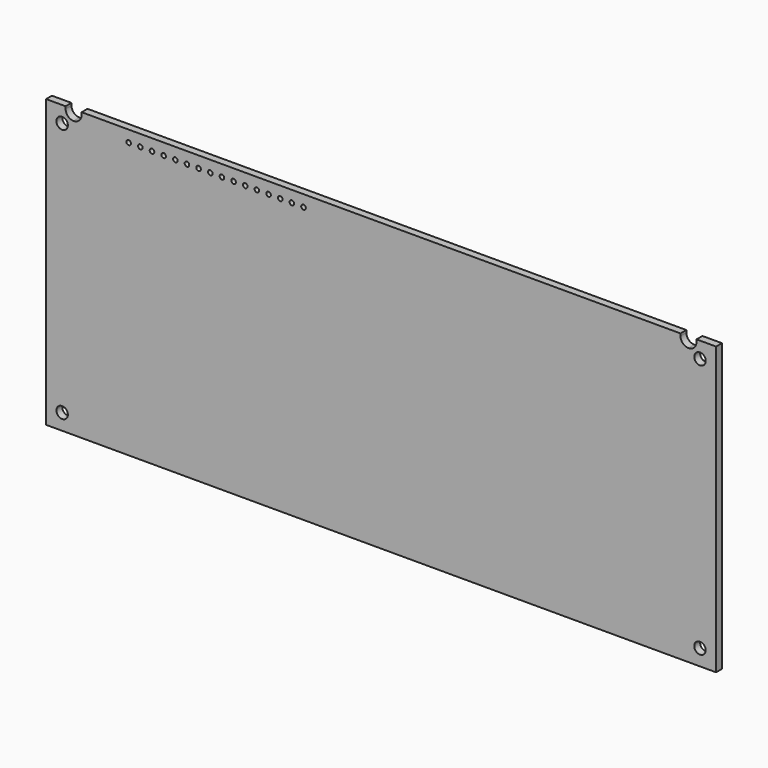
from build123d import *

# Parameters (mm, degrees)
F0_R     = 2
F0_R_2   = 1.25
F0_R_3   = 0.5
F1_DEPTH = 1.6


with BuildPart() as f1:
    # F0 (on Front) → F1 (new body)
    with BuildSketch(Plane.XZ):
        with BuildLine():
            Line((-73, -31.25), (73, -31.25))
            Line((73, -31.25), (73, 31.25))
            Line((73, 31.25), (68.75, 31.25))
            Line((68.75, 31.25), (68.75, 30.75))
            ThreePointArc((68.75, 30.75), (68.237437, 29.512563), (67, 29))
            ThreePointArc((67, 29), (65.762563, 29.512563), (65.25, 30.75))
            Line((65.25, 30.75), (65.25, 31.25))
            Line((65.25, 31.25), (-16, 31.25))
            Line((-16, 31.25), (-16, 29.65))
            Line((-16, 29.65), (-16, 28.75))
            ThreePointArc((-16, 28.75), (-16.263604, 28.113604), (-16.9, 27.85))
            ThreePointArc((-16.9, 27.85), (-17.536396, 28.113604), (-17.8, 28.75))
            Line((-17.8, 28.75), (-17.8, 29.65))
            Line((-17.8, 29.65), (-17.8, 31.25))
            Line((-17.8, 31.25), (-18.54, 31.25))
            Line((-18.54, 31.25), (-18.54, 29.65))
            Line((-18.54, 29.65), (-18.54, 28.75))
            ThreePointArc((-18.54, 28.75), (-18.803604, 28.113604), (-19.44, 27.85))
            ThreePointArc((-19.44, 27.85), (-20.076396, 28.113604), (-20.34, 28.75))
            Line((-20.34, 28.75), (-20.34, 29.65))
            Line((-20.34, 29.65), (-20.34, 31.25))
            Line((-20.34, 31.25), (-21.08, 31.25))
            Line((-21.08, 31.25), (-21.08, 29.65))
            Line((-21.08, 29.65), (-21.08, 28.75))
            ThreePointArc((-21.08, 28.75), (-21.343604, 28.113604), (-21.98, 27.85))
            ThreePointArc((-21.98, 27.85), (-22.616396, 28.113604), (-22.88, 28.75))
            Line((-22.88, 28.75), (-22.88, 29.65))
            Line((-22.88, 29.65), (-22.88, 31.25))
            Line((-22.88, 31.25), (-23.62, 31.25))
            Line((-23.62, 31.25), (-23.62, 29.65))
            Line((-23.62, 29.65), (-23.62, 28.75))
            ThreePointArc((-23.62, 28.75), (-23.883604, 28.113604), (-24.52, 27.85))
            ThreePointArc((-24.52, 27.85), (-25.156396, 28.113604), (-25.42, 28.75))
            Line((-25.42, 28.75), (-25.42, 29.65))
            Line((-25.42, 29.65), (-25.42, 31.25))
            Line((-25.42, 31.25), (-26.16, 31.25))
            Line((-26.16, 31.25), (-26.16, 29.65))
            Line((-26.16, 29.65), (-26.16, 28.75))
            ThreePointArc((-26.16, 28.75), (-26.423604, 28.113604), (-27.06, 27.85))
            ThreePointArc((-27.06, 27.85), (-27.696396, 28.113604), (-27.96, 28.75))
            Line((-27.96, 28.75), (-27.96, 29.65))
            Line((-27.96, 29.65), (-27.96, 31.25))
            Line((-27.96, 31.25), (-28.7, 31.25))
            Line((-28.7, 31.25), (-28.7, 29.65))
            Line((-28.7, 29.65), (-28.7, 28.75))
            ThreePointArc((-28.7, 28.75), (-28.963604, 28.113604), (-29.6, 27.85))
            ThreePointArc((-29.6, 27.85), (-30.236396, 28.113604), (-30.5, 28.75))
            Line((-30.5, 28.75), (-30.5, 29.65))
            Line((-30.5, 29.65), (-30.5, 31.25))
            Line((-30.5, 31.25), (-31.24, 31.25))
            Line((-31.24, 31.25), (-31.24, 29.65))
            Line((-31.24, 29.65), (-31.24, 28.75))
            ThreePointArc((-31.24, 28.75), (-31.503604, 28.113604), (-32.14, 27.85))
            ThreePointArc((-32.14, 27.85), (-32.776396, 28.113604), (-33.04, 28.75))
            Line((-33.04, 28.75), (-33.04, 29.65))
            Line((-33.04, 29.65), (-33.04, 31.25))
            Line((-33.04, 31.25), (-33.78, 31.25))
            Line((-33.78, 31.25), (-33.78, 29.65))
            Line((-33.78, 29.65), (-33.78, 28.75))
            ThreePointArc((-33.78, 28.75), (-34.043604, 28.113604), (-34.68, 27.85))
            ThreePointArc((-34.68, 27.85), (-35.316396, 28.113604), (-35.58, 28.75))
            Line((-35.58, 28.75), (-35.58, 29.65))
            Line((-35.58, 29.65), (-35.58, 31.25))
            Line((-35.58, 31.25), (-36.32, 31.25))
            Line((-36.32, 31.25), (-36.32, 29.65))
            Line((-36.32, 29.65), (-36.32, 28.75))
            ThreePointArc((-36.32, 28.75), (-36.583604, 28.113604), (-37.22, 27.85))
            ThreePointArc((-37.22, 27.85), (-37.856396, 28.113604), (-38.12, 28.75))
            Line((-38.12, 28.75), (-38.12, 29.65))
            Line((-38.12, 29.65), (-38.12, 31.25))
            Line((-38.12, 31.25), (-38.86, 31.25))
            Line((-38.86, 31.25), (-38.86, 29.65))
            Line((-38.86, 29.65), (-38.86, 28.75))
            ThreePointArc((-38.86, 28.75), (-39.123604, 28.113604), (-39.76, 27.85))
            ThreePointArc((-39.76, 27.85), (-40.396396, 28.113604), (-40.66, 28.75))
            Line((-40.66, 28.75), (-40.66, 29.65))
            Line((-40.66, 29.65), (-40.66, 31.25))
            Line((-40.66, 31.25), (-41.4, 31.25))
            Line((-41.4, 31.25), (-41.4, 29.65))
            Line((-41.4, 29.65), (-41.4, 28.75))
            ThreePointArc((-41.4, 28.75), (-41.663604, 28.113604), (-42.3, 27.85))
            ThreePointArc((-42.3, 27.85), (-42.936396, 28.113604), (-43.2, 28.75))
            Line((-43.2, 28.75), (-43.2, 29.65))
            Line((-43.2, 29.65), (-43.2, 31.25))
            Line((-43.2, 31.25), (-43.94, 31.25))
            Line((-43.94, 31.25), (-43.94, 29.65))
            Line((-43.94, 29.65), (-43.94, 28.75))
            ThreePointArc((-43.94, 28.75), (-44.203604, 28.113604), (-44.84, 27.85))
            ThreePointArc((-44.84, 27.85), (-45.476396, 28.113604), (-45.74, 28.75))
            Line((-45.74, 28.75), (-45.74, 29.65))
            Line((-45.74, 29.65), (-45.74, 31.25))
            Line((-45.74, 31.25), (-46.48, 31.25))
            Line((-46.48, 31.25), (-46.48, 29.65))
            Line((-46.48, 29.65), (-46.48, 28.75))
            ThreePointArc((-46.48, 28.75), (-46.743604, 28.113604), (-47.38, 27.85))
            ThreePointArc((-47.38, 27.85), (-48.016396, 28.113604), (-48.28, 28.75))
            Line((-48.28, 28.75), (-48.28, 29.65))
            Line((-48.28, 29.65), (-48.28, 31.25))
            Line((-48.28, 31.25), (-49.02, 31.25))
            Line((-49.02, 31.25), (-49.02, 29.65))
            Line((-49.02, 29.65), (-49.02, 28.75))
            ThreePointArc((-49.02, 28.75), (-49.283604, 28.113604), (-49.92, 27.85))
            ThreePointArc((-49.92, 27.85), (-50.556396, 28.113604), (-50.82, 28.75))
            Line((-50.82, 28.75), (-50.82, 29.65))
            Line((-50.82, 29.65), (-50.82, 31.25))
            Line((-50.82, 31.25), (-51.56, 31.25))
            Line((-51.56, 31.25), (-51.56, 29.65))
            Line((-51.56, 29.65), (-51.56, 28.75))
            ThreePointArc((-51.56, 28.75), (-51.823604, 28.113604), (-52.46, 27.85))
            ThreePointArc((-52.46, 27.85), (-53.096396, 28.113604), (-53.36, 28.75))
            Line((-53.36, 28.75), (-53.36, 29.65))
            Line((-53.36, 29.65), (-53.36, 31.25))
            Line((-53.36, 31.25), (-54.1, 31.25))
            Line((-54.1, 31.25), (-54.1, 29.65))
            Line((-54.1, 29.65), (-54.1, 28.75))
            ThreePointArc((-54.1, 28.75), (-54.363604, 28.113604), (-55, 27.85))
            ThreePointArc((-55, 27.85), (-55.636396, 28.113604), (-55.9, 28.75))
            Line((-55.9, 28.75), (-55.9, 29.65))
            Line((-55.9, 29.65), (-55.9, 31.25))
            Line((-55.9, 31.25), (-65.25, 31.25))
            Line((-65.25, 31.25), (-65.25, 30.75))
            ThreePointArc((-65.25, 30.75), (-65.762563, 29.512563), (-67, 29))
            ThreePointArc((-67, 29), (-68.237437, 29.512563), (-68.75, 30.75))
            Line((-68.75, 30.75), (-68.75, 31.25))
            Line((-68.75, 31.25), (-73, 31.25))
            Line((-73, 31.25), (-73, -31.25))
        make_face()
        with Locations((-69.5, -27.75)):
            Circle(F0_R, mode=Mode.SUBTRACT)
        with Locations((69.5, -27.75)):
            Circle(F0_R, mode=Mode.SUBTRACT)
        with Locations((-69.5, 27.75)):
            Circle(F0_R, mode=Mode.SUBTRACT)
        with Locations((69.5, 27.75)):
            Circle(F0_R, mode=Mode.SUBTRACT)
        with Locations((-69.5, 27.75)):
            Circle(F0_R)
        with Locations((-69.5, 27.75)):
            Circle(F0_R_2, mode=Mode.SUBTRACT)
        with Locations((-69.5, -27.75)):
            Circle(F0_R)
        with Locations((-69.5, -27.75)):
            Circle(F0_R_2, mode=Mode.SUBTRACT)
        with Locations((69.5, 27.75)):
            Circle(F0_R)
        with Locations((69.5, 27.75)):
            Circle(F0_R_2, mode=Mode.SUBTRACT)
        with Locations((69.5, -27.75)):
            Circle(F0_R)
        with Locations((69.5, -27.75)):
            Circle(F0_R_2, mode=Mode.SUBTRACT)
        with BuildLine():
            Line((-54.1, 31.25), (-55.9, 31.25))
            Line((-55.9, 31.25), (-55.9, 29.65))
            Line((-55.9, 29.65), (-55.9, 28.75))
            ThreePointArc((-55.9, 28.75), (-55.636396, 28.113604), (-55, 27.85))
            ThreePointArc((-55, 27.85), (-54.363604, 28.113604), (-54.1, 28.75))
            Line((-54.1, 28.75), (-54.1, 29.65))
            Line((-54.1, 29.65), (-54.1, 31.25))
        make_face()
        with Locations((-55, 28.75)):
            Circle(F0_R_3, mode=Mode.SUBTRACT)
        with BuildLine():
            Line((-51.56, 31.25), (-53.36, 31.25))
            Line((-53.36, 31.25), (-53.36, 29.65))
            Line((-53.36, 29.65), (-53.36, 28.75))
            ThreePointArc((-53.36, 28.75), (-53.096396, 28.113604), (-52.46, 27.85))
            ThreePointArc((-52.46, 27.85), (-51.823604, 28.113604), (-51.56, 28.75))
            Line((-51.56, 28.75), (-51.56, 29.65))
            Line((-51.56, 29.65), (-51.56, 31.25))
        make_face()
        with Locations((-52.46, 28.75)):
            Circle(F0_R_3, mode=Mode.SUBTRACT)
        with BuildLine():
            Line((-49.02, 31.25), (-50.82, 31.25))
            Line((-50.82, 31.25), (-50.82, 29.65))
            Line((-50.82, 29.65), (-50.82, 28.75))
            ThreePointArc((-50.82, 28.75), (-50.556396, 28.113604), (-49.92, 27.85))
            ThreePointArc((-49.92, 27.85), (-49.283604, 28.113604), (-49.02, 28.75))
            Line((-49.02, 28.75), (-49.02, 29.65))
            Line((-49.02, 29.65), (-49.02, 31.25))
        make_face()
        with Locations((-49.92, 28.75)):
            Circle(F0_R_3, mode=Mode.SUBTRACT)
        with BuildLine():
            Line((-46.48, 31.25), (-48.28, 31.25))
            Line((-48.28, 31.25), (-48.28, 29.65))
            Line((-48.28, 29.65), (-48.28, 28.75))
            ThreePointArc((-48.28, 28.75), (-48.016396, 28.113604), (-47.38, 27.85))
            ThreePointArc((-47.38, 27.85), (-46.743604, 28.113604), (-46.48, 28.75))
            Line((-46.48, 28.75), (-46.48, 29.65))
            Line((-46.48, 29.65), (-46.48, 31.25))
        make_face()
        with Locations((-47.38, 28.75)):
            Circle(F0_R_3, mode=Mode.SUBTRACT)
        with BuildLine():
            Line((-43.94, 31.25), (-45.74, 31.25))
            Line((-45.74, 31.25), (-45.74, 29.65))
            Line((-45.74, 29.65), (-45.74, 28.75))
            ThreePointArc((-45.74, 28.75), (-45.476396, 28.113604), (-44.84, 27.85))
            ThreePointArc((-44.84, 27.85), (-44.203604, 28.113604), (-43.94, 28.75))
            Line((-43.94, 28.75), (-43.94, 29.65))
            Line((-43.94, 29.65), (-43.94, 31.25))
        make_face()
        with Locations((-44.84, 28.75)):
            Circle(F0_R_3, mode=Mode.SUBTRACT)
        with BuildLine():
            Line((-41.4, 31.25), (-43.2, 31.25))
            Line((-43.2, 31.25), (-43.2, 29.65))
            Line((-43.2, 29.65), (-43.2, 28.75))
            ThreePointArc((-43.2, 28.75), (-42.936396, 28.113604), (-42.3, 27.85))
            ThreePointArc((-42.3, 27.85), (-41.663604, 28.113604), (-41.4, 28.75))
            Line((-41.4, 28.75), (-41.4, 29.65))
            Line((-41.4, 29.65), (-41.4, 31.25))
        make_face()
        with Locations((-42.3, 28.75)):
            Circle(F0_R_3, mode=Mode.SUBTRACT)
        with BuildLine():
            Line((-38.86, 31.25), (-40.66, 31.25))
            Line((-40.66, 31.25), (-40.66, 29.65))
            Line((-40.66, 29.65), (-40.66, 28.75))
            ThreePointArc((-40.66, 28.75), (-40.396396, 28.113604), (-39.76, 27.85))
            ThreePointArc((-39.76, 27.85), (-39.123604, 28.113604), (-38.86, 28.75))
            Line((-38.86, 28.75), (-38.86, 29.65))
            Line((-38.86, 29.65), (-38.86, 31.25))
        make_face()
        with Locations((-39.76, 28.75)):
            Circle(F0_R_3, mode=Mode.SUBTRACT)
        with BuildLine():
            Line((-36.32, 31.25), (-38.12, 31.25))
            Line((-38.12, 31.25), (-38.12, 29.65))
            Line((-38.12, 29.65), (-38.12, 28.75))
            ThreePointArc((-38.12, 28.75), (-37.856396, 28.113604), (-37.22, 27.85))
            ThreePointArc((-37.22, 27.85), (-36.583604, 28.113604), (-36.32, 28.75))
            Line((-36.32, 28.75), (-36.32, 29.65))
            Line((-36.32, 29.65), (-36.32, 31.25))
        make_face()
        with Locations((-37.22, 28.75)):
            Circle(F0_R_3, mode=Mode.SUBTRACT)
        with BuildLine():
            Line((-33.78, 29.65), (-33.78, 31.25))
            Line((-33.78, 31.25), (-35.58, 31.25))
            Line((-35.58, 31.25), (-35.58, 29.65))
            Line((-35.58, 29.65), (-35.58, 28.75))
            ThreePointArc((-35.58, 28.75), (-35.316396, 28.113604), (-34.68, 27.85))
            ThreePointArc((-34.68, 27.85), (-34.043604, 28.113604), (-33.78, 28.75))
            Line((-33.78, 28.75), (-33.78, 29.65))
        make_face()
        with Locations((-34.68, 28.75)):
            Circle(F0_R_3, mode=Mode.SUBTRACT)
        with BuildLine():
            Line((-31.24, 29.65), (-31.24, 31.25))
            Line((-31.24, 31.25), (-33.04, 31.25))
            Line((-33.04, 31.25), (-33.04, 29.65))
            Line((-33.04, 29.65), (-33.04, 28.75))
            ThreePointArc((-33.04, 28.75), (-32.776396, 28.113604), (-32.14, 27.85))
            ThreePointArc((-32.14, 27.85), (-31.503604, 28.113604), (-31.24, 28.75))
            Line((-31.24, 28.75), (-31.24, 29.65))
        make_face()
        with Locations((-32.14, 28.75)):
            Circle(F0_R_3, mode=Mode.SUBTRACT)
        with BuildLine():
            Line((-28.7, 29.65), (-28.7, 31.25))
            Line((-28.7, 31.25), (-30.5, 31.25))
            Line((-30.5, 31.25), (-30.5, 29.65))
            Line((-30.5, 29.65), (-30.5, 28.75))
            ThreePointArc((-30.5, 28.75), (-30.236396, 28.113604), (-29.6, 27.85))
            ThreePointArc((-29.6, 27.85), (-28.963604, 28.113604), (-28.7, 28.75))
            Line((-28.7, 28.75), (-28.7, 29.65))
        make_face()
        with Locations((-29.6, 28.75)):
            Circle(F0_R_3, mode=Mode.SUBTRACT)
        with BuildLine():
            Line((-26.16, 29.65), (-26.16, 31.25))
            Line((-26.16, 31.25), (-27.96, 31.25))
            Line((-27.96, 31.25), (-27.96, 29.65))
            Line((-27.96, 29.65), (-27.96, 28.75))
            ThreePointArc((-27.96, 28.75), (-27.696396, 28.113604), (-27.06, 27.85))
            ThreePointArc((-27.06, 27.85), (-26.423604, 28.113604), (-26.16, 28.75))
            Line((-26.16, 28.75), (-26.16, 29.65))
        make_face()
        with Locations((-27.06, 28.75)):
            Circle(F0_R_3, mode=Mode.SUBTRACT)
        with BuildLine():
            Line((-23.62, 29.65), (-23.62, 31.25))
            Line((-23.62, 31.25), (-25.42, 31.25))
            Line((-25.42, 31.25), (-25.42, 29.65))
            Line((-25.42, 29.65), (-25.42, 28.75))
            ThreePointArc((-25.42, 28.75), (-25.156396, 28.113604), (-24.52, 27.85))
            ThreePointArc((-24.52, 27.85), (-23.883604, 28.113604), (-23.62, 28.75))
            Line((-23.62, 28.75), (-23.62, 29.65))
        make_face()
        with Locations((-24.52, 28.75)):
            Circle(F0_R_3, mode=Mode.SUBTRACT)
        with BuildLine():
            Line((-21.08, 29.65), (-21.08, 31.25))
            Line((-21.08, 31.25), (-22.88, 31.25))
            Line((-22.88, 31.25), (-22.88, 29.65))
            Line((-22.88, 29.65), (-22.88, 28.75))
            ThreePointArc((-22.88, 28.75), (-22.616396, 28.113604), (-21.98, 27.85))
            ThreePointArc((-21.98, 27.85), (-21.343604, 28.113604), (-21.08, 28.75))
            Line((-21.08, 28.75), (-21.08, 29.65))
        make_face()
        with Locations((-21.98, 28.75)):
            Circle(F0_R_3, mode=Mode.SUBTRACT)
        with BuildLine():
            Line((-18.54, 29.65), (-18.54, 31.25))
            Line((-18.54, 31.25), (-20.34, 31.25))
            Line((-20.34, 31.25), (-20.34, 29.65))
            Line((-20.34, 29.65), (-20.34, 28.75))
            ThreePointArc((-20.34, 28.75), (-20.076396, 28.113604), (-19.44, 27.85))
            ThreePointArc((-19.44, 27.85), (-18.803604, 28.113604), (-18.54, 28.75))
            Line((-18.54, 28.75), (-18.54, 29.65))
        make_face()
        with Locations((-19.44, 28.75)):
            Circle(F0_R_3, mode=Mode.SUBTRACT)
        with BuildLine():
            Line((-16, 29.65), (-16, 31.25))
            Line((-16, 31.25), (-17.8, 31.25))
            Line((-17.8, 31.25), (-17.8, 29.65))
            Line((-17.8, 29.65), (-17.8, 28.75))
            ThreePointArc((-17.8, 28.75), (-17.536396, 28.113604), (-16.9, 27.85))
            ThreePointArc((-16.9, 27.85), (-16.263604, 28.113604), (-16, 28.75))
            Line((-16, 28.75), (-16, 29.65))
        make_face()
        with Locations((-16.9, 28.75)):
            Circle(F0_R_3, mode=Mode.SUBTRACT)
    extrude(amount=F1_DEPTH)


solid = f1.part
